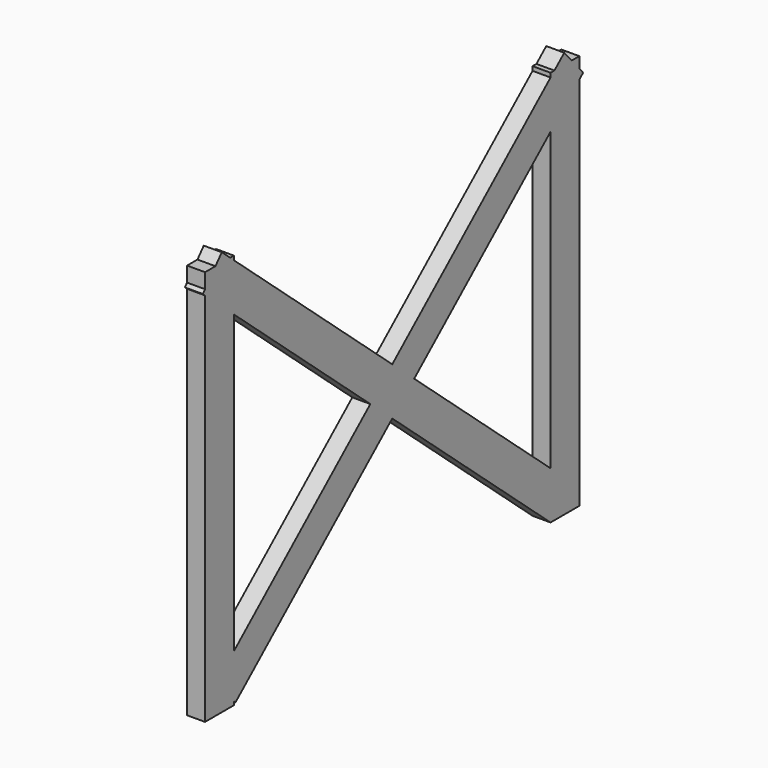
from build123d import *

# Parameters (mm, degrees)
BOX208_W          = 0.5
BOX208_H          = 1
BOX208_DEPTH      = 11
BOX209_W          = 0.5
BOX209_H          = 1
BOX209_DEPTH      = 16
BOX209_ROLL_ANGLE = 49
BOX210_W          = 0.5
BOX210_H          = 1
BOX210_DEPTH      = 16
BOX210_ROLL_ANGLE = -49
BOX207_W          = 0.5
BOX207_H          = 1
BOX207_DEPTH      = 11


with BuildPart() as cubo208:
    # Box208 → Box208 (new body)
    with BuildSketch(Plane(origin=(0, 12, 0.5), x_dir=(1, 0, 0), z_dir=(0, 0, 1))):
        with Locations((0.25, 0.5)):
            Rectangle(BOX208_W, BOX208_H)
    extrude(amount=BOX208_DEPTH)


with BuildPart() as cubo209:
    # Box209 → Box209 (new body)
    with BuildSketch(Plane.XY):
        with Locations((0.25, 0.5)):
            Rectangle(BOX209_W, BOX209_H)
    extrude(amount=BOX209_DEPTH)


with BuildPart() as cubo209_1:
    # Box209 roll: moved
    add(cubo209.part.rotate(Axis((0, 0, 0), (1, 0, 0)), BOX209_ROLL_ANGLE))


with BuildPart() as cubo209_2:
    # Box209 placement: moved
    add(cubo209_1.part.moved(Location((0, 12, 0.5))))


with BuildPart() as cubo210:
    # Box210 → Box210 (new body)
    with BuildSketch(Plane.XY):
        with Locations((0.25, 0.5)):
            Rectangle(BOX210_W, BOX210_H)
    extrude(amount=BOX210_DEPTH)


with BuildPart() as cubo210_1:
    # Box210 roll: moved
    add(cubo210.part.rotate(Axis((0, 0, 0), (1, 0, 0)), BOX210_ROLL_ANGLE))


with BuildPart() as cubo210_2:
    # Box210 placement: moved
    add(cubo210_1.part.moved(Location((0, 0.4, 1.3))))


with BuildPart() as fusion014:
    # Box207 → Box207 (new body)
    with BuildSketch(Plane.XY.offset(0.5)):
        with Locations((0.25, 0.5)):
            Rectangle(BOX207_W, BOX207_H)
    extrude(amount=BOX207_DEPTH)

    # Fusion014: union Cubo208, Cubo209, Cubo210
    add(cubo208.part)
    add(cubo209_2.part)
    add(cubo210_2.part)


with BuildPart() as fusion014_1:
    # Fusion014 placement: moved
    add(fusion014.part.moved(Location((-219.5, 70, 0))))


solid = fusion014_1.part
